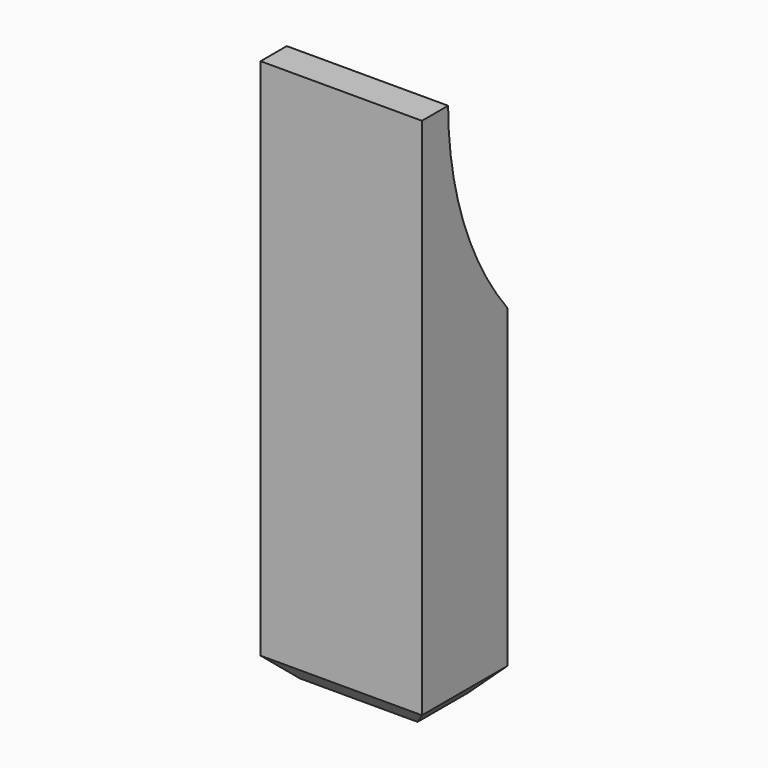
from build123d import *

# Parameters (mm, degrees)
F1_DEPTH = 3.7
F2_SIZE  = 1


with BuildPart() as f1:
    # F0 (on Right) → F1 (new body, symmetric)
    with BuildSketch(Plane.YZ):
        with BuildLine():
            Line((0, -9.8), (0, 0))
            Line((0, 0), (0, 5.650941))
            ThreePointArc((0, 5.650941), (-2.516585, 10.13472), (-3.4, 15.2))
            Line((-3.4, 15.2), (-4.9, 15.2))
            Line((-4.9, 15.2), (-4.9, -9.8))
            Line((-4.9, -9.8), (0, -9.8))
        make_face()
    extrude(amount=F1_DEPTH, both=True)

    # F2
    f2_edges = [f1.edges().sort_by_distance(p)[0] for p in [
        (0, -4.9, -9.8),
        (0, 0, -9.8),
        (3.7, -2.45, -9.8),
        (-3.7, -2.45, -9.8),
    ]]
    chamfer(f2_edges, length=F2_SIZE)


solid = f1.part
